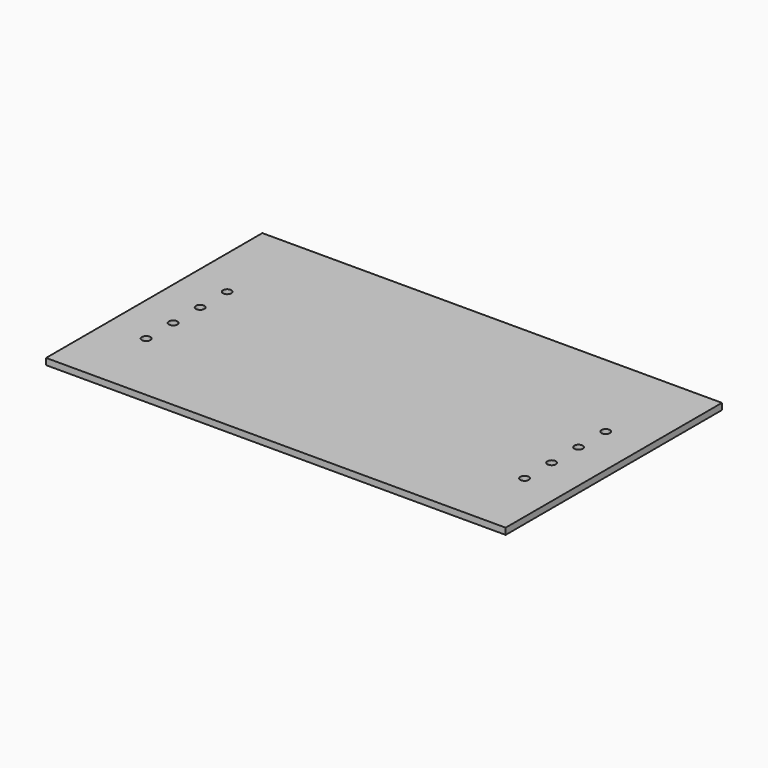
from build123d import *

# Parameters (mm, degrees)
F0_W     = 431.8
F0_H     = 254
F0_R     = 4
F1_DEPTH = 3


with BuildPart() as f1:
    # F0 (on Top) → F1 (new body, symmetric)
    with BuildSketch(Plane.XY):
        Rectangle(F0_W, F0_H)
        with Locations((-177.8, -57.15)):
            Circle(F0_R, mode=Mode.SUBTRACT)
        with Locations((-177.8, -25.4)):
            Circle(F0_R, mode=Mode.SUBTRACT)
        with Locations((177.8, -57.15)):
            Circle(F0_R, mode=Mode.SUBTRACT)
        with Locations((177.8, -25.4)):
            Circle(F0_R, mode=Mode.SUBTRACT)
        with Locations((-177.8, 6.35)):
            Circle(F0_R, mode=Mode.SUBTRACT)
        with Locations((-177.8, 38.1)):
            Circle(F0_R, mode=Mode.SUBTRACT)
        with Locations((177.8, 6.35)):
            Circle(F0_R, mode=Mode.SUBTRACT)
        with Locations((177.8, 38.1)):
            Circle(F0_R, mode=Mode.SUBTRACT)
    extrude(amount=F1_DEPTH, both=True)


solid = f1.part
